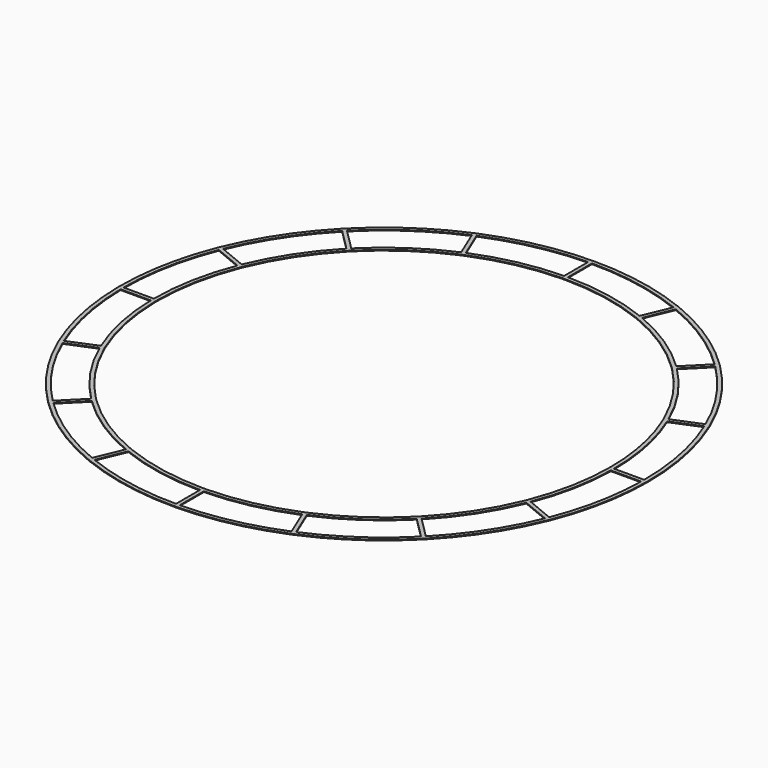
from build123d import *

# Parameters (mm, degrees)
F1_DEPTH = 1


with BuildPart() as f1:
    # F0 (on Top) → F1 (new body)
    with BuildSketch(Plane.XY):
        with BuildLine():
            ThreePointArc((325.323721, -129.090962), (343.775583, -65.714145), (350, 0))
            ThreePointArc((350, 0), (343.252248, 68.395135), (323.269174, 134.15305))
            ThreePointArc((323.269174, 134.15305), (322.302662, 136.458764), (321.319704, 138.757514))
            ThreePointArc((321.319704, 138.757514), (289.487922, 196.714877), (247.323624, 247.651015))
            ThreePointArc((247.323624, 247.651015), (245.548325, 249.411348), (243.760496, 251.158955))
            ThreePointArc((243.760496, 251.158955), (192.172442, 292.52308), (133.725294, 323.446357))
            ThreePointArc((133.725294, 323.446357), (131.411481, 324.393315), (129.090962, 325.323721))
            ThreePointArc((129.090962, 325.323721), (65.60045, 343.797296), (-0.2315, 349.999923))
            ThreePointArc((-0.2315, 349.999923), (-68.50865, 343.22961), (-134.15305, 323.269174))
            ThreePointArc((-134.15305, 323.269174), (-136.458764, 322.302662), (-138.757514, 321.319704))
            ThreePointArc((-138.757514, 321.319704), (-196.714877, 289.487922), (-247.651015, 247.323624))
            ThreePointArc((-247.651015, 247.323624), (-249.411348, 245.548325), (-251.158955, 243.760496))
            ThreePointArc((-251.158955, 243.760496), (-292.52308, 192.172442), (-323.446357, 133.725294))
            ThreePointArc((-323.446357, 133.725294), (-324.393315, 131.411481), (-325.323721, 129.090962))
            ThreePointArc((-325.323721, 129.090962), (-343.797296, 65.60045), (-349.999923, -0.2315))
            ThreePointArc((-349.999923, -0.2315), (-349.989341, -2.73157), (-349.9609, -5.2315))
            ThreePointArc((-349.9609, -5.2315), (-342.731491, -70.958617), (-323.269174, -134.15305))
            ThreePointArc((-323.269174, -134.15305), (-322.302662, -136.458764), (-321.319704, -138.757514))
            ThreePointArc((-321.319704, -138.757514), (-289.487922, -196.714877), (-247.323624, -247.651015))
            ThreePointArc((-247.323624, -247.651015), (-245.548325, -249.411348), (-243.760496, -251.158955))
            ThreePointArc((-243.760496, -251.158955), (-192.172442, -292.52308), (-133.725294, -323.446357))
            ThreePointArc((-133.725294, -323.446357), (-131.411481, -324.393315), (-129.090962, -325.323721))
            ThreePointArc((-129.090962, -325.323721), (-65.60045, -343.797296), (0.2315, -349.999923))
            ThreePointArc((0.2315, -349.999923), (2.73157, -349.989341), (5.2315, -349.9609))
            ThreePointArc((5.2315, -349.9609), (70.958617, -342.731491), (134.15305, -323.269174))
            ThreePointArc((134.15305, -323.269174), (136.458764, -322.302662), (138.757514, -321.319704))
            ThreePointArc((138.757514, -321.319704), (196.714877, -289.487922), (247.651015, -247.323624))
            ThreePointArc((247.651015, -247.323624), (249.411348, -245.548325), (251.158955, -243.760496))
            ThreePointArc((251.158955, -243.760496), (292.52308, -192.172442), (323.446357, -133.725294))
            ThreePointArc((323.446357, -133.725294), (324.393315, -131.411481), (325.323721, -129.090962))
        make_face()
        with BuildLine():
            Line((-240.224562, -247.62302), (-211.936611, -219.33507))
            ThreePointArc((-211.936611, -219.33507), (-167.170889, -255.105652), (-116.504535, -281.871768))
            Line((-116.504535, -281.871768), (-131.811876, -318.826958))
            ThreePointArc((-131.811876, -318.826958), (-189.394504, -288.365605), (-240.224562, -247.62302))
        make_face(mode=Mode.SUBTRACT)
        with BuildLine():
            Line((-316.699783, -136.84388), (-279.739795, -121.534552))
            ThreePointArc((-279.739795, -121.534552), (-252.07047, -171.713361), (-215.503811, -215.831201))
            Line((-215.503811, -215.831201), (-243.788089, -244.11548))
            ThreePointArc((-243.788089, -244.11548), (-285.330445, -193.936941), (-316.699783, -136.84388))
        make_face(mode=Mode.SUBTRACT)
        with BuildLine():
            Line((-127.177328, -320.7038), (-111.868, -283.743812))
            ThreePointArc((-111.868, -283.743812), (-56.821057, -299.66042), (0.2315, -304.999912))
            Line((0.2315, -304.999912), (0.2315, -344.999922))
            ThreePointArc((0.2315, -344.999922), (-64.624966, -338.893219), (-127.177328, -320.7038))
        make_face(mode=Mode.SUBTRACT)
        with BuildLine():
            ThreePointArc((-318.649776, -132.239633), (-337.827412, -69.983137), (-344.960333, -5.2315))
            Line((-344.960333, -5.2315), (-304.95513, -5.2315))
            ThreePointArc((-304.95513, -5.2315), (-298.594606, -62.179267), (-281.694585, -116.932291))
            Line((-281.694585, -116.932291), (-318.649776, -132.239633))
        make_face(mode=Mode.SUBTRACT)
        with BuildLine():
            Line((5.2315, -344.960333), (5.2315, -304.95513))
            ThreePointArc((5.2315, -304.95513), (62.179267, -298.594606), (116.932291, -281.694585))
            Line((116.932291, -281.694585), (132.239633, -318.649776))
            ThreePointArc((132.239633, -318.649776), (69.983137, -337.827412), (5.2315, -344.960333))
        make_face(mode=Mode.SUBTRACT)
        with BuildLine():
            ThreePointArc((244.11548, -243.788089), (193.936941, -285.330445), (136.84388, -316.699783))
            Line((136.84388, -316.699783), (121.534552, -279.739795))
            ThreePointArc((121.534552, -279.739795), (171.713361, -252.07047), (215.831201, -215.503811))
            Line((215.831201, -215.503811), (244.11548, -243.788089))
        make_face(mode=Mode.SUBTRACT)
        with BuildLine():
            Line((247.62302, -240.224562), (219.33507, -211.936611))
            ThreePointArc((219.33507, -211.936611), (255.105652, -167.170889), (281.871768, -116.504535))
            Line((281.871768, -116.504535), (318.826958, -131.811876))
            ThreePointArc((318.826958, -131.811876), (288.365605, -189.394504), (247.62302, -240.224562))
        make_face(mode=Mode.SUBTRACT)
        with BuildLine():
            Line((304.954385, -5.274736), (344.960902, -5.193863))
            ThreePointArc((344.960902, -5.193863), (338.374593, -67.287702), (320.7038, -127.177328))
            Line((320.7038, -127.177328), (283.743812, -111.868))
            ThreePointArc((283.743812, -111.868), (299.135292, -59.523754), (304.954385, -5.274736))
        make_face(mode=Mode.SUBTRACT)
        with BuildLine():
            ThreePointArc((-344.999922, -0.2315), (-338.893219, 64.624966), (-320.7038, 127.177328))
            Line((-320.7038, 127.177328), (-283.743812, 111.868))
            ThreePointArc((-283.743812, 111.868), (-299.66042, 56.821057), (-304.999912, -0.2315))
            Line((-304.999912, -0.2315), (-344.999922, -0.2315))
        make_face(mode=Mode.SUBTRACT)
        with BuildLine():
            Line((-281.871768, 116.504535), (-318.826958, 131.811876))
            ThreePointArc((-318.826958, 131.811876), (-288.365605, 189.394504), (-247.62302, 240.224562))
            Line((-247.62302, 240.224562), (-219.33507, 211.936611))
            ThreePointArc((-219.33507, 211.936611), (-255.105652, 167.170889), (-281.871768, 116.504535))
        make_face(mode=Mode.SUBTRACT)
        with BuildLine():
            ThreePointArc((-244.11548, 243.788089), (-193.936941, 285.330445), (-136.84388, 316.699783))
            Line((-136.84388, 316.699783), (-121.534552, 279.739795))
            ThreePointArc((-121.534552, 279.739795), (-171.713361, 252.07047), (-215.831201, 215.503811))
            Line((-215.831201, 215.503811), (-244.11548, 243.788089))
        make_face(mode=Mode.SUBTRACT)
        with BuildLine():
            ThreePointArc((-132.239633, 318.649776), (-69.983137, 337.827412), (-5.2315, 344.960333))
            Line((-5.2315, 344.960333), (-5.2315, 304.95513))
            ThreePointArc((-5.2315, 304.95513), (-62.179267, 298.594606), (-116.932291, 281.694585))
            Line((-116.932291, 281.694585), (-132.239633, 318.649776))
        make_face(mode=Mode.SUBTRACT)
        with BuildLine():
            ThreePointArc((277.075186, 115.018874), (294.212981, 58.640618), (300, 0))
            ThreePointArc((300, 0), (294.734726, -55.959285), (279.123723, -109.954297))
            ThreePointArc((279.123723, -109.954297), (278.197706, -112.276606), (277.252368, -114.591117))
            ThreePointArc((277.252368, -114.591117), (250.948136, -164.392922), (215.799007, -208.400548))
            ThreePointArc((215.799007, -208.400548), (214.05477, -210.191711), (212.295667, -211.968276))
            ThreePointArc((212.295667, -211.968276), (168.935399, -247.91295), (119.620848, -275.119706))
            ThreePointArc((119.620848, -275.119706), (117.323935, -276.107034), (115.018874, -277.075186))
            ThreePointArc((115.018874, -277.075186), (61.203779, -293.690479), (5.2315, -299.954382))
            ThreePointArc((5.2315, -299.954382), (2.731595, -299.987564), (0.2315, -299.999911))
            ThreePointArc((0.2315, -299.999911), (-55.845562, -294.756295), (-109.954297, -279.123723))
            ThreePointArc((-109.954297, -279.123723), (-112.276606, -278.197706), (-114.591117, -277.252368))
            ThreePointArc((-114.591117, -277.252368), (-164.392922, -250.948136), (-208.400548, -215.799007))
            ThreePointArc((-208.400548, -215.799007), (-210.191711, -214.05477), (-211.968276, -212.295667))
            ThreePointArc((-211.968276, -212.295667), (-247.91295, -168.935399), (-275.119706, -119.620848))
            ThreePointArc((-275.119706, -119.620848), (-276.107034, -117.323935), (-277.075186, -115.018874))
            ThreePointArc((-277.075186, -115.018874), (-293.690479, -61.203779), (-299.954382, -5.2315))
            ThreePointArc((-299.954382, -5.2315), (-299.987564, -2.731595), (-299.999911, -0.2315))
            ThreePointArc((-299.999911, -0.2315), (-294.756295, 55.845562), (-279.123723, 109.954297))
            ThreePointArc((-279.123723, 109.954297), (-278.197706, 112.276606), (-277.252368, 114.591117))
            ThreePointArc((-277.252368, 114.591117), (-250.948136, 164.392922), (-215.799007, 208.400548))
            ThreePointArc((-215.799007, 208.400548), (-214.05477, 210.191711), (-212.295667, 211.968276))
            ThreePointArc((-212.295667, 211.968276), (-168.935399, 247.91295), (-119.620848, 275.119706))
            ThreePointArc((-119.620848, 275.119706), (-117.323935, 276.107034), (-115.018874, 277.075186))
            ThreePointArc((-115.018874, 277.075186), (-61.203779, 293.690479), (-5.2315, 299.954382))
            ThreePointArc((-5.2315, 299.954382), (-2.731595, 299.987564), (-0.2315, 299.999911))
            ThreePointArc((-0.2315, 299.999911), (55.845562, 294.756295), (109.954297, 279.123723))
            ThreePointArc((109.954297, 279.123723), (112.276606, 278.197706), (114.591117, 277.252368))
            ThreePointArc((114.591117, 277.252368), (164.392922, 250.948136), (208.400548, 215.799007))
            ThreePointArc((208.400548, 215.799007), (210.191711, 214.05477), (211.968276, 212.295667))
            ThreePointArc((211.968276, 212.295667), (247.91295, 168.935399), (275.119706, 119.620848))
            ThreePointArc((275.119706, 119.620848), (276.107034, 117.323935), (277.075186, 115.018874))
        make_face(mode=Mode.SUBTRACT)
        with BuildLine():
            ThreePointArc((318.649776, 132.239633), (338.367241, 67.324661), (344.999946, -0.193774))
            Line((344.999946, -0.193774), (304.999876, -0.274634))
            ThreePointArc((304.999876, -0.274634), (299.143717, 59.481396), (281.694585, 116.932291))
            Line((281.694585, 116.932291), (318.649776, 132.239633))
        make_face(mode=Mode.SUBTRACT)
        with BuildLine():
            ThreePointArc((-0.2315, 344.999922), (64.624966, 338.893219), (127.177328, 320.7038))
            Line((127.177328, 320.7038), (111.868, 283.743812))
            ThreePointArc((111.868, 283.743812), (56.821057, 299.66042), (-0.2315, 304.999912))
            Line((-0.2315, 304.999912), (-0.2315, 344.999922))
        make_face(mode=Mode.SUBTRACT)
        with BuildLine():
            ThreePointArc((243.788089, 244.11548), (285.330445, 193.936941), (316.699783, 136.84388))
            Line((316.699783, 136.84388), (279.739795, 121.534552))
            ThreePointArc((279.739795, 121.534552), (252.07047, 171.713361), (215.503811, 215.831201))
            Line((215.503811, 215.831201), (243.788089, 244.11548))
        make_face(mode=Mode.SUBTRACT)
        with BuildLine():
            Line((240.224562, 247.62302), (211.936611, 219.33507))
            ThreePointArc((211.936611, 219.33507), (167.170889, 255.105652), (116.504535, 281.871768))
            Line((116.504535, 281.871768), (131.811876, 318.826958))
            ThreePointArc((131.811876, 318.826958), (189.394504, 288.365605), (240.224562, 247.62302))
        make_face(mode=Mode.SUBTRACT)
    extrude(amount=F1_DEPTH)


solid = f1.part
